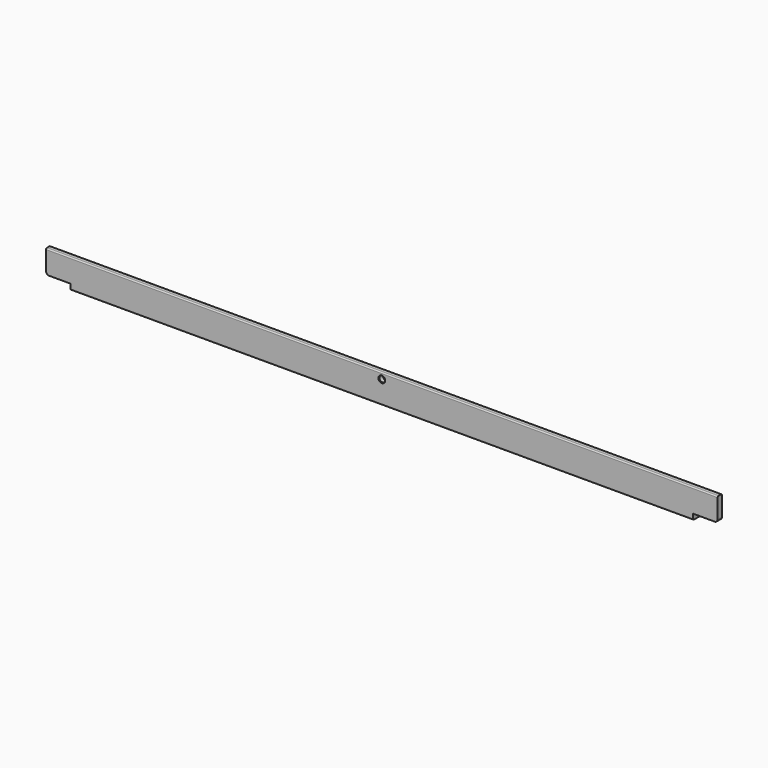
from build123d import *

# Parameters (mm, degrees)
F1_DEPTH  = 295
F2_R      = 1
F3_R      = 2.38125
F5_W      = 50
F5_H      = 50
F6_DEPTH  = 25
F7_R      = 2.5
F8_R      = 2.5
F9_DEPTH  = 25
F10_SIZE  = 0.5
F11_R     = 2.5
F12_DEPTH = 25
F13_SIZE  = 0.5


with BuildPart() as f1:
    # F0 (on Right) → F1 (new body, symmetric)
    with BuildSketch(Plane.YZ):
        Polygon((0, 25.4), (0, 0), (25.4, 0), (25.4, 4.7625), (4.7625, 4.7625), (4.7625, 25.4), align=None)
    extrude(amount=F1_DEPTH, both=True)

    # F2
    f2_edges = [f1.edges().sort_by_distance(p)[0] for p in [
        (0, 0, 25.4),
        (0, 4.7625, 25.4),
        (0, 0, 0),
        (0, 25.4, 4.7625),
        (0, 25.4, 0),
    ]]
    fillet(f2_edges, radius=F2_R)

    # F3
    f3_edges = [f1.edges().sort_by_distance(p)[0] for p in [
        (0, 4.7625, 4.7625),
    ]]
    fillet(f3_edges, radius=F3_R)

    # F5 (on face) → F6 (cut, symmetric)
    with BuildSketch(Plane(origin=(0, 4.7625, 0), x_dir=(-1, 0, 0), z_dir=(0, 1, 0))):
        with Locations((-298.5, -20)):
            Rectangle(F5_W, F5_H)
        with Locations((298.5, -20)):
            Rectangle(F5_W, F5_H)
    extrude(amount=F6_DEPTH, both=True, mode=Mode.SUBTRACT)

    # F7
    f7_edges = [f1.edges().sort_by_distance(p)[0] for p in [
        (295, 3.053539, 5),
        (-295, 3.053539, 5),
    ]]
    fillet(f7_edges, radius=F7_R)

    # F8 (on face) → F9 (cut)
    with BuildSketch(Plane.XY.offset(4.7625)):
        with Locations((0, 20)):
            Circle(F8_R)
    extrude(amount=-F9_DEPTH, mode=Mode.SUBTRACT)

    # F10
    f10_edges = [f1.edges().sort_by_distance(p)[0] for p in [
        (-2.5, 20, 4.7625),
        (2.5, 20, 2.38125),
        (-2.5, 20, 0),
    ]]
    chamfer(f10_edges, length=F10_SIZE)

    # F11 (on face) → F12 (cut)
    with BuildSketch(Plane.XZ):
        with Locations((0, 20)):
            Circle(F11_R)
    extrude(amount=-F12_DEPTH, mode=Mode.SUBTRACT)

    # F13
    f13_edges = [f1.edges().sort_by_distance(p)[0] for p in [
        (-2.5, 0, 20),
        (2.5, 2.38125, 20),
        (-2.5, 4.7625, 20),
    ]]
    chamfer(f13_edges, length=F13_SIZE)


solid = f1.part
